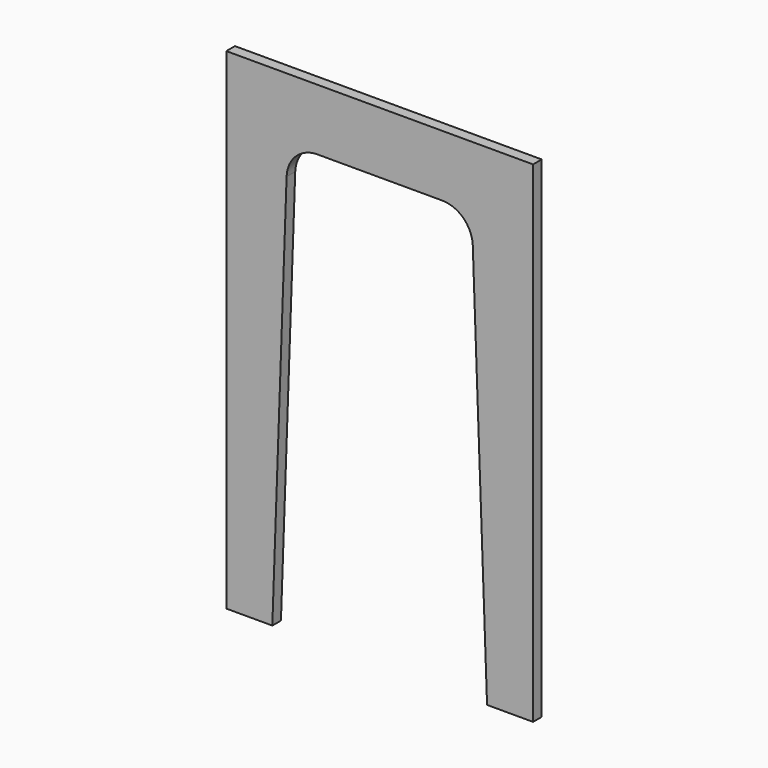
from build123d import *

# Parameters (mm, degrees)
F1_DEPTH = 17.8562


with BuildPart() as f1:
    # F0 (on Front) → F1 (new body)
    with BuildSketch(Plane.XZ):
        with BuildLine():
            Line((254, 471.312474), (-254, 471.312474))
            Line((-254, 471.312474), (-254, -341.487526))
            Line((-254, -341.487526), (-177.8, -341.487526))
            Line((-177.8, -341.487526), (-154.149531, 320.725604))
            ThreePointArc((-154.149531, 320.725604), (-138.65606, 355.468917), (-103.381898, 369.712474))
            Line((-103.381898, 369.712474), (103.381898, 369.712474))
            ThreePointArc((103.381898, 369.712474), (138.65606, 355.468917), (154.149531, 320.725604))
            Line((154.149531, 320.725604), (177.8, -341.487526))
            Line((177.8, -341.487526), (254, -341.487526))
            Line((254, -341.487526), (254, 471.312474))
        make_face()
    extrude(amount=F1_DEPTH)


solid = f1.part
